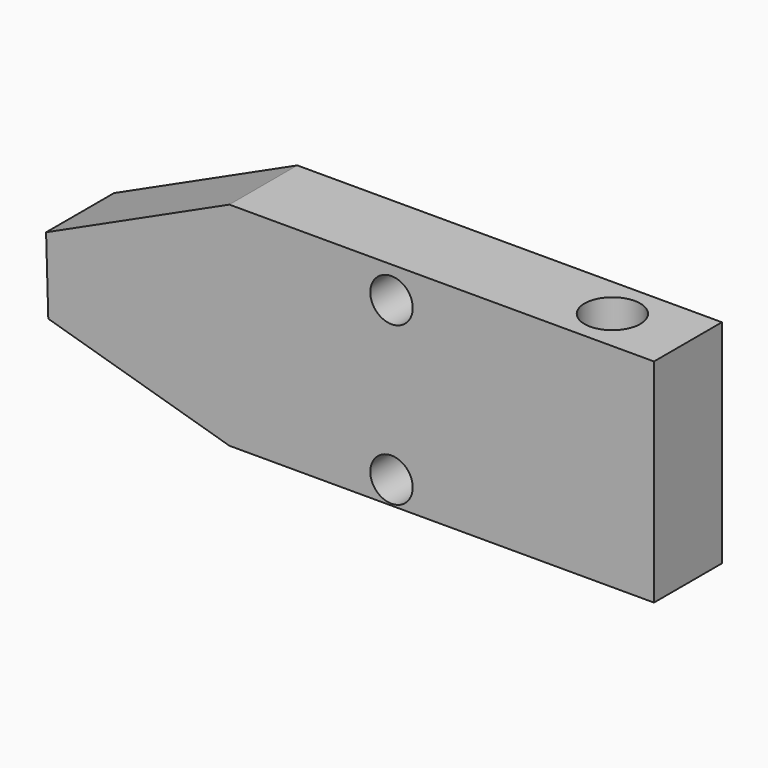
from build123d import *

# Parameters (mm, degrees)
F0_W     = 25
F0_H     = 25
F1_DEPTH = 10
F3_D     = 5
F4_W     = 10
F4_H     = 25
F5_DEPTH = 25
F6_R     = 3.281956
F7_DEPTH = 25


with BuildPart() as f1:
    # F0 (on Front) → F1 (new body)
    with BuildSketch(Plane.XZ):
        Polygon((-11.585821, -12.109886), (-11.585821, 12.890114), (-33.171643, 3.001011), (-32.910448, -5.879586), align=None)
        with Locations((0.914179, 0.390114)):
            Rectangle(F0_W, F0_H)
    extrude(amount=F1_DEPTH)

    # F3 (through all)
    with Locations(Plane.XZ.offset(10)):
        with Locations((7.505033, 9.196309), (7.505033, -9.407719)):
            Hole(F3_D / 2)

    # F4 (on face) → F5 (join)
    with BuildSketch(Plane.YZ.offset(13.414179)):
        with Locations((-5, 0.390114)):
            Rectangle(F4_W, F4_H)
    extrude(amount=F5_DEPTH)

    # F6 (on face) → F7 (cut)
    with BuildSketch(Plane.XY.offset(12.890114)):
        with Locations((29.491611, -4.968121)):
            Circle(F6_R)
    extrude(amount=-F7_DEPTH, mode=Mode.SUBTRACT)


solid = f1.part
